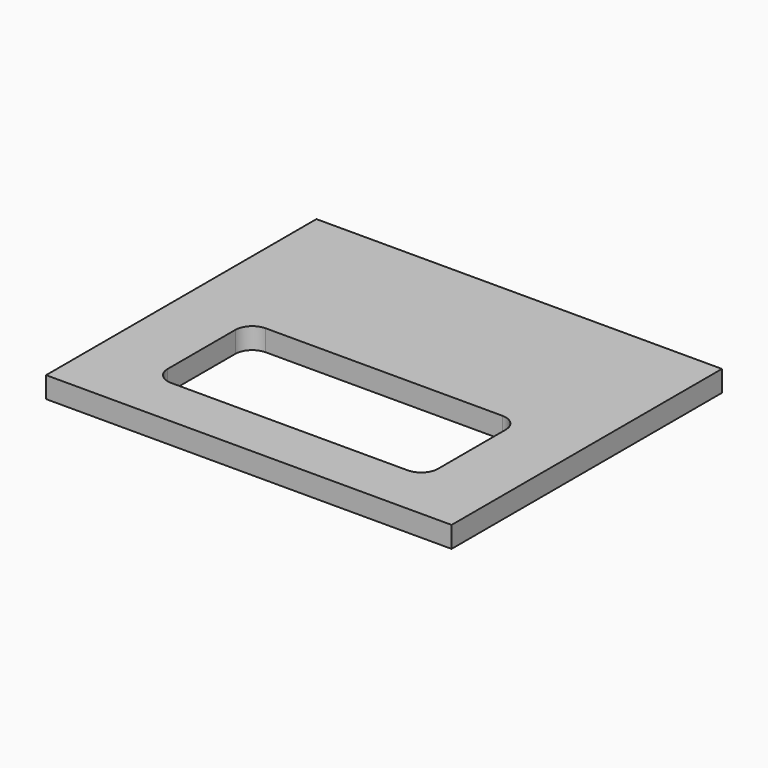
from build123d import *

# Parameters (mm, degrees)
F0_W     = 304.8
F0_H     = 254
F1_DEPTH = 15.875


with BuildPart() as f1:
    # F0 (on Top) → F1 (new body)
    with BuildSketch(Plane.XY):
        with Locations((-269.767359, 26.605111)):
            Rectangle(F0_W, F0_H)
        with BuildLine():
            ThreePointArc((-371.367359, 13.905111), (-367.647615, 22.885367), (-358.667359, 26.605111))
            Line((-358.667359, 26.605111), (-180.867359, 26.605111))
            ThreePointArc((-180.867359, 26.605111), (-171.887103, 22.885367), (-168.167359, 13.905111))
            Line((-168.167359, 13.905111), (-168.167359, -49.594889))
            ThreePointArc((-168.167359, -49.594889), (-171.887103, -58.575145), (-180.867359, -62.294889))
            Line((-180.867359, -62.294889), (-358.667359, -62.294889))
            ThreePointArc((-358.667359, -62.294889), (-367.647615, -58.575145), (-371.367359, -49.594889))
            Line((-371.367359, -49.594889), (-371.367359, 13.905111))
        make_face(mode=Mode.SUBTRACT)
    extrude(amount=F1_DEPTH)


solid = f1.part
